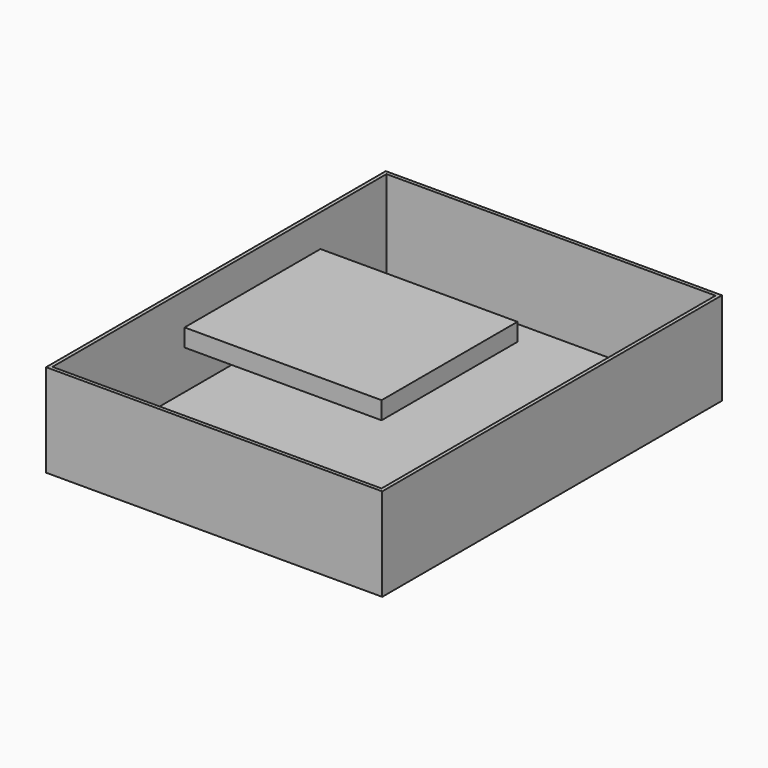
from build123d import *

# Parameters (mm, degrees)
F0_W     = 482.6
F0_H     = 133.35
F1_DEPTH = 609.6
F2_W     = 282.863241
F2_H     = 243.84
F3_DEPTH = 25.4
F4_T     = -5.08


with BuildPart() as f1:
    # F0 (on Front) → F1 (new body)
    with BuildSketch(Plane.XZ):
        Rectangle(F0_W, F0_H)
    extrude(amount=F1_DEPTH)

    # F4
    f4_openings = [f1.faces().sort_by_distance(p)[0] for p in [
        (0, -304.8, 66.675),
    ]]
    offset(amount=F4_T, openings=f4_openings)


with BuildPart() as f3:
    # F2 (on Top) → F3 (new body)
    with BuildSketch(Plane.XY):
        with Locations((-88.496752, -253.402796)):
            Rectangle(F2_W, F2_H)
    extrude(amount=F3_DEPTH)


solid = Compound([f1.part, f3.part])
